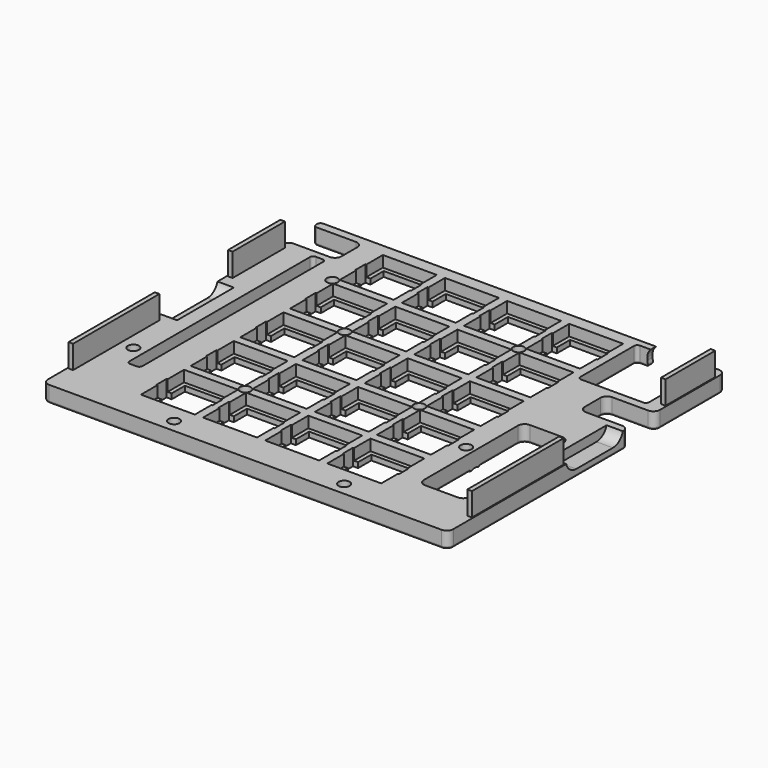
from build123d import *

# Parameters (mm, degrees)
PAD003_DEPTH                       = 5
SKETCH016_W                        = 14
SKETCH016_H                        = 14
POCKET009_DEPTH                    = 5
SKETCH016_LINEARPATTERN_2_W        = 14
SKETCH016_LINEARPATTERN_2_H        = 14
POCKET009_LINEARPATTERN_2_DEPTH    = 5
SKETCH016_LINEARPATTERN_3_W        = 14
SKETCH016_LINEARPATTERN_3_H        = 14
POCKET009_LINEARPATTERN_3_DEPTH    = 5
SKETCH016_LINEARPATTERN_4_W        = 14
SKETCH016_LINEARPATTERN_4_H        = 14
POCKET009_LINEARPATTERN_4_DEPTH    = 5
LINEARPATTERN001_COUNT             = 5
LINEARPATTERN001_PITCH             = 19
POCKET011_DEPTH                    = 5
SKETCH019_W                        = 16.5
SKETCH019_H                        = 16.5
POCKET012_DEPTH                    = 3.4
SKETCH019_LINEARPATTERN002_2_W     = 16.5
SKETCH019_LINEARPATTERN002_2_H     = 16.5
POCKET012_LINEARPATTERN002_2_DEPTH = 3.4
SKETCH019_LINEARPATTERN002_3_W     = 16.5
SKETCH019_LINEARPATTERN002_3_H     = 16.5
POCKET012_LINEARPATTERN002_3_DEPTH = 3.4
SKETCH019_LINEARPATTERN002_4_W     = 16.5
SKETCH019_LINEARPATTERN002_4_H     = 16.5
POCKET012_LINEARPATTERN002_4_DEPTH = 3.4
LINEARPATTERN003_COUNT             = 5
LINEARPATTERN003_PITCH             = 19
POCKET014_DEPTH                    = 5
POCKET014_LINEARPATTERN004_2_DEPTH = 5
POCKET014_LINEARPATTERN004_3_DEPTH = 5
POCKET014_LINEARPATTERN004_4_DEPTH = 5
LINEARPATTERN005_COUNT             = 5
LINEARPATTERN005_PITCH             = 19
POCKET015_DEPTH                    = 5
POCKET016_DEPTH                    = 5
POCKET017_DEPTH                    = 10
POCKET018_DEPTH                    = 5
POCKET019_DEPTH                    = 5
HOLE001_D                          = 3.4
HOLE001_DEPTH                      = 25
HOLE001_CSINK_D                    = 6.1
HOLE001_CSINK_ANGLE                = 90
HOLE_D                             = 3.4
HOLE_DEPTH                         = 25
HOLE_CSINK_D                       = 6.1
HOLE_CSINK_ANGLE                   = 90
POCKET020_DEPTH                    = 5
SKETCH028_W                        = 1.4
SKETCH028_H                        = 35
SKETCH028_H_2                      = 19
SKETCH028_H_3                      = 20
SKETCH028_H_4                      = 33
PAD004_DEPTH                       = 7.1
FILLET001_R                        = 0.65


with BuildPart() as part:
    # Sketch012 → Pad003 (new body)
    with BuildSketch(Plane.XY.offset(-5)):
        with BuildLine():
            Line((-2, 1.5), (-2, -101.5))
            ThreePointArc((-2, -101.5), (-1.414214, -102.914214), (0, -103.5))
            Line((0, -103.5), (120, -103.5))
            ThreePointArc((120, -103.5), (121.414214, -102.914214), (122, -101.5))
            Line((122, -101.5), (122, 0.5))
            ThreePointArc((122, 0.5), (121.414214, 1.914214), (120, 2.5))
            Line((120, 2.5), (-1, 2.5))
            ThreePointArc((-1, 2.5), (-1.707107, 2.207107), (-2, 1.5))
        make_face()
    extrude(amount=PAD003_DEPTH)

    # Sketch016 (on Face9 of Pad003) → Pocket009 (cut)
    with BuildSketch(Plane(origin=(0, 0, -5), x_dir=(1, 0, 0), z_dir=(0, 0, -1))):
        with Locations((28.525, 9.525)):
            Rectangle(SKETCH016_W, SKETCH016_H)
    pocket009 = extrude(amount=-POCKET009_DEPTH, mode=Mode.SUBTRACT)

    # Sketch016 LinearPattern 2 → Pocket009 LinearPattern 2 (cut)
    with BuildSketch(Plane(origin=(19, 0, -5), x_dir=(1, 0, 0), z_dir=(0, 0, -1))):
        with Locations((28.525, 9.525)):
            Rectangle(SKETCH016_LINEARPATTERN_2_W, SKETCH016_LINEARPATTERN_2_H)
    pocket009_linearpattern_2 = extrude(amount=-POCKET009_LINEARPATTERN_2_DEPTH, mode=Mode.SUBTRACT)

    # Sketch016 LinearPattern 3 → Pocket009 LinearPattern 3 (cut)
    with BuildSketch(Plane(origin=(38, 0, -5), x_dir=(1, 0, 0), z_dir=(0, 0, -1))):
        with Locations((28.525, 9.525)):
            Rectangle(SKETCH016_LINEARPATTERN_3_W, SKETCH016_LINEARPATTERN_3_H)
    pocket009_linearpattern_3 = extrude(amount=-POCKET009_LINEARPATTERN_3_DEPTH, mode=Mode.SUBTRACT)

    # Sketch016 LinearPattern 4 → Pocket009 LinearPattern 4 (cut)
    with BuildSketch(Plane(origin=(57, 0, -5), x_dir=(1, 0, 0), z_dir=(0, 0, -1))):
        with Locations((28.525, 9.525)):
            Rectangle(SKETCH016_LINEARPATTERN_4_W, SKETCH016_LINEARPATTERN_4_H)
    pocket009_linearpattern_4 = extrude(amount=-POCKET009_LINEARPATTERN_4_DEPTH, mode=Mode.SUBTRACT)

    # LinearPattern001: Pocket009, Pocket009 LinearPattern 2, Pocket009 LinearPattern 3, Pocket009 LinearPattern 4 ×5
    with Locations(*[(0, -i * LINEARPATTERN001_PITCH, 0) for i in range(1, LINEARPATTERN001_COUNT)]):
        add(pocket009, mode=Mode.SUBTRACT)
        add(pocket009_linearpattern_2, mode=Mode.SUBTRACT)
        add(pocket009_linearpattern_3, mode=Mode.SUBTRACT)
        add(pocket009_linearpattern_4, mode=Mode.SUBTRACT)

    # Sketch018 (on Face4 of MultiTransform) → Pocket011 (cut)
    with BuildSketch(Plane(origin=(0, 0, -5), x_dir=(1, 0, 0), z_dir=(0, 0, -1))):
        with BuildLine():
            Line((8.35, 12), (10.35, 12))
            ThreePointArc((10.35, 12), (11.057107, 12.292893), (11.35, 13))
            Line((11.35, 13), (11.35, 82))
            ThreePointArc((11.35, 82), (11.057107, 82.707107), (10.35, 83))
            Line((10.35, 83), (8.35, 83))
            ThreePointArc((8.35, 83), (7.642893, 82.707107), (7.35, 82))
            Line((7.35, 82), (7.35, 13))
            ThreePointArc((7.35, 13), (7.642893, 12.292893), (8.35, 12))
        make_face()
    extrude(amount=-POCKET011_DEPTH, mode=Mode.SUBTRACT)

    # Sketch019 (on Face5 of Pocket011) → Pocket012 (cut)
    with BuildSketch(Plane.XY):
        with Locations((28.525, -9.525)):
            Rectangle(SKETCH019_W, SKETCH019_H)
    pocket012 = extrude(amount=-POCKET012_DEPTH, mode=Mode.SUBTRACT)

    # Sketch019 LinearPattern002 2 → Pocket012 LinearPattern002 2 (cut)
    with BuildSketch(Plane(origin=(19, 0, 0), x_dir=(1, 0, 0), z_dir=(0, 0, 1))):
        with Locations((28.525, -9.525)):
            Rectangle(SKETCH019_LINEARPATTERN002_2_W, SKETCH019_LINEARPATTERN002_2_H)
    pocket012_linearpattern002_2 = extrude(amount=-POCKET012_LINEARPATTERN002_2_DEPTH, mode=Mode.SUBTRACT)

    # Sketch019 LinearPattern002 3 → Pocket012 LinearPattern002 3 (cut)
    with BuildSketch(Plane(origin=(38, 0, 0), x_dir=(1, 0, 0), z_dir=(0, 0, 1))):
        with Locations((28.525, -9.525)):
            Rectangle(SKETCH019_LINEARPATTERN002_3_W, SKETCH019_LINEARPATTERN002_3_H)
    pocket012_linearpattern002_3 = extrude(amount=-POCKET012_LINEARPATTERN002_3_DEPTH, mode=Mode.SUBTRACT)

    # Sketch019 LinearPattern002 4 → Pocket012 LinearPattern002 4 (cut)
    with BuildSketch(Plane(origin=(57, 0, 0), x_dir=(1, 0, 0), z_dir=(0, 0, 1))):
        with Locations((28.525, -9.525)):
            Rectangle(SKETCH019_LINEARPATTERN002_4_W, SKETCH019_LINEARPATTERN002_4_H)
    pocket012_linearpattern002_4 = extrude(amount=-POCKET012_LINEARPATTERN002_4_DEPTH, mode=Mode.SUBTRACT)

    # LinearPattern003: Pocket012, Pocket012 LinearPattern002 2, Pocket012 LinearPattern002 3, Pocket012 LinearPattern002 4 ×5
    with Locations(*[(0, -i * LINEARPATTERN003_PITCH, 0) for i in range(1, LINEARPATTERN003_COUNT)]):
        add(pocket012, mode=Mode.SUBTRACT)
        add(pocket012_linearpattern002_2, mode=Mode.SUBTRACT)
        add(pocket012_linearpattern002_3, mode=Mode.SUBTRACT)
        add(pocket012_linearpattern002_4, mode=Mode.SUBTRACT)

    # Sketch020 → Pocket014 (cut)
    with BuildSketch(Plane.XY):
        Polygon((20.275, -11.475), (19.975, -11.475), (19.975, -7.575), (20.275, -7.575), (36.775, -7.575), (37.075, -7.575), (37.075, -11.475), (36.775, -11.475), align=None)
    pocket014 = extrude(amount=-POCKET014_DEPTH, mode=Mode.SUBTRACT)

    # Sketch020 LinearPattern004 2 → Pocket014 LinearPattern004 2 (cut)
    with BuildSketch(Plane(origin=(19, 0, 0), x_dir=(1, 0, 0), z_dir=(0, 0, 1))):
        Polygon((20.275, -11.475), (19.975, -11.475), (19.975, -7.575), (20.275, -7.575), (36.775, -7.575), (37.075, -7.575), (37.075, -11.475), (36.775, -11.475), align=None)
    pocket014_linearpattern004_2 = extrude(amount=-POCKET014_LINEARPATTERN004_2_DEPTH, mode=Mode.SUBTRACT)

    # Sketch020 LinearPattern004 3 → Pocket014 LinearPattern004 3 (cut)
    with BuildSketch(Plane(origin=(38, 0, 0), x_dir=(1, 0, 0), z_dir=(0, 0, 1))):
        Polygon((20.275, -11.475), (19.975, -11.475), (19.975, -7.575), (20.275, -7.575), (36.775, -7.575), (37.075, -7.575), (37.075, -11.475), (36.775, -11.475), align=None)
    pocket014_linearpattern004_3 = extrude(amount=-POCKET014_LINEARPATTERN004_3_DEPTH, mode=Mode.SUBTRACT)

    # Sketch020 LinearPattern004 4 → Pocket014 LinearPattern004 4 (cut)
    with BuildSketch(Plane(origin=(57, 0, 0), x_dir=(1, 0, 0), z_dir=(0, 0, 1))):
        Polygon((20.275, -11.475), (19.975, -11.475), (19.975, -7.575), (20.275, -7.575), (36.775, -7.575), (37.075, -7.575), (37.075, -11.475), (36.775, -11.475), align=None)
    pocket014_linearpattern004_4 = extrude(amount=-POCKET014_LINEARPATTERN004_4_DEPTH, mode=Mode.SUBTRACT)

    # LinearPattern005: Pocket014, Pocket014 LinearPattern004 2, Pocket014 LinearPattern004 3, Pocket014 LinearPattern004 4 ×5
    with Locations(*[(0, -i * LINEARPATTERN005_PITCH, 0) for i in range(1, LINEARPATTERN005_COUNT)]):
        add(pocket014, mode=Mode.SUBTRACT)
        add(pocket014_linearpattern004_2, mode=Mode.SUBTRACT)
        add(pocket014_linearpattern004_3, mode=Mode.SUBTRACT)
        add(pocket014_linearpattern004_4, mode=Mode.SUBTRACT)

    # Sketch021 (on Face4 of MultiTransform002) → Pocket015 (cut)
    with BuildSketch(Plane(origin=(0, 0, -5), x_dir=(1, 0, 0), z_dir=(0, 0, -1))):
        with BuildLine():
            Line((116.5, -0.5), (97.5, -0.5))
            ThreePointArc((96.5, 0.5), (96.792893, -0.207107), (97.5, -0.5))
            Line((96.5, 0.5), (96.5, 21))
            ThreePointArc((97.5, 22), (96.792893, 21.707107), (96.5, 21))
            Line((97.5, 22), (116.5, 22))
            ThreePointArc((117.5, 21), (117.207107, 21.707107), (116.5, 22))
            Line((117.5, 21), (117.5, 0.5))
            ThreePointArc((116.5, -0.5), (117.207107, -0.207107), (117.5, 0.5))
        make_face()
        with BuildLine():
            Line((100.6, 86), (100.6, 50))
            ThreePointArc((100.6, 50), (101.185786, 48.585786), (102.6, 48))
            Line((102.6, 48), (112.6, 48))
            ThreePointArc((112.6, 48), (114.014214, 48.585786), (114.6, 50))
            Line((114.6, 50), (114.6, 86))
            ThreePointArc((114.6, 86), (114.014214, 87.414214), (112.6, 88))
            Line((112.6, 88), (102.6, 88))
            ThreePointArc((102.6, 88), (101.185786, 87.414214), (100.6, 86))
        make_face()
    extrude(amount=-POCKET015_DEPTH, mode=Mode.SUBTRACT)

    # Sketch022 (on Face4 of Pocket015) → Pocket016 (cut)
    with BuildSketch(Plane(origin=(0, 0, -5), x_dir=(1, 0, 0), z_dir=(0, 0, -1))):
        with BuildLine():
            Line((120, 34.5), (109, 34.5))
            ThreePointArc((109, 34.5), (107.585786, 33.914214), (107, 32.5))
            Line((107, 32.5), (107, 26.5))
            ThreePointArc((107, 26.5), (107.585786, 25.085786), (109, 24.5))
            Line((109, 24.5), (120, 24.5))
            Line((120.001, 24.5), (120, 24.5))
            ThreePointArc((122.001, 22.5), (121.415214, 23.914214), (120.001, 24.5))
            Line((122.001, 22.5), (122.001, 19.5))
            Line((122.001, 19.5), (127.001, 19.5))
            Line((127.001, 19.5), (127.001, 39.5))
            Line((127.001, 39.5), (122.001, 39.5))
            Line((122.001, 36.5), (122.001, 39.5))
            ThreePointArc((120.001, 34.5), (121.415214, 35.085786), (122.001, 36.5))
            Line((120, 34.5), (120.001, 34.5))
        make_face()
    extrude(amount=-POCKET016_DEPTH, mode=Mode.SUBTRACT)

    # Sketch023 (on Face6 of Pocket016) → Pocket017 (cut)
    with BuildSketch(Plane(origin=(0, 2.5, 0), x_dir=(-1, 0, 0), z_dir=(0, 1, 0))):
        with BuildLine():
            Line((-114.25, -2.4), (-114.25, -3.2))
            ThreePointArc((-114.25, -3.2), (-113.298097, -5.498097), (-111, -6.45))
            Line((-111, -6.45), (-103, -6.45))
            ThreePointArc((-103, -6.45), (-100.701903, -5.498097), (-99.75, -3.2))
            Line((-99.75, -3.2), (-99.75, -2.4))
            ThreePointArc((-99.75, -2.4), (-100.701903, -0.101903), (-103, 0.85))
            Line((-103, 0.85), (-111, 0.85))
            ThreePointArc((-111, 0.85), (-113.298097, -0.101903), (-114.25, -2.4))
        make_face()
    extrude(amount=-POCKET017_DEPTH, mode=Mode.SUBTRACT)

    # Sketch024 (on Face31 of Pocket017) → Pocket018 (cut)
    with BuildSketch(Plane.YZ.offset(122)):
        with BuildLine():
            Line((-58.5, 2.1), (-58.5, 1.1))
            ThreePointArc((-58.5, 1.1), (-57.328427, -1.728427), (-54.5, -2.9))
            Line((-54.5, -2.9), (-40.5, -2.9))
            ThreePointArc((-40.5, -2.9), (-37.671573, -1.728427), (-36.5, 1.1))
            Line((-36.5, 2.1), (-36.5, 1.1))
            ThreePointArc((-36.5, 2.1), (-37.671573, 4.928427), (-40.5, 6.1))
            Line((-54.500001, 6.1), (-40.5, 6.1))
            ThreePointArc((-54.500001, 6.1), (-57.328428, 4.928427), (-58.5, 2.1))
        make_face()
    extrude(amount=-POCKET018_DEPTH, mode=Mode.SUBTRACT)

    # Sketch025 (on Face1 of Pocket018) → Pocket019 (cut)
    with BuildSketch(Plane(origin=(-2, 0, 0), x_dir=(0, -1, 0), z_dir=(-1, 0, 0))):
        with BuildLine():
            Line((36.5, 2.1), (36.5, 1.1))
            ThreePointArc((36.5, 1.1), (37.671573, -1.728427), (40.5, -2.9))
            Line((40.5, -2.9), (54.5, -2.9))
            ThreePointArc((54.5, -2.9), (57.328427, -1.728427), (58.5, 1.1))
            Line((58.5, 2.1), (58.5, 1.1))
            ThreePointArc((58.5, 2.1), (57.328427, 4.928427), (54.5, 6.1))
            Line((40.499999, 6.1), (54.5, 6.1))
            ThreePointArc((40.499999, 6.1), (37.671572, 4.928427), (36.5, 2.1))
        make_face()
    extrude(amount=-POCKET019_DEPTH, mode=Mode.SUBTRACT)

    # Hole001
    with Locations(Plane(origin=(0, 0, -5), x_dir=(1, 0, 0), z_dir=(0, 0, -1))):
        with Locations((35, 99.5), (87, 99.5)):
            CounterSinkHole(HOLE001_D / 2, HOLE001_CSINK_D / 2, depth=HOLE001_DEPTH, counter_sink_angle=HOLE001_CSINK_ANGLE)

    # Hole
    with Locations(Plane(origin=(0, 0, -5), x_dir=(1, 0, 0), z_dir=(0, 0, -1))):
        with Locations((38, 76), (3.75, 76), (97.9, 66.5), (76, 57), (38, 38), (19, 19), (76, 19)):
            CounterSinkHole(HOLE_D / 2, HOLE_CSINK_D / 2, depth=HOLE_DEPTH, counter_sink_angle=HOLE_CSINK_ANGLE)

    # Sketch027 (on Face2 of Hole) → Pocket020 (cut)
    with BuildSketch(Plane(origin=(0, 0, -5), x_dir=(1, 0, 0), z_dir=(0, 0, -1))):
        with BuildLine():
            Line((-1, 0), (11, 0))
            ThreePointArc((11, 0), (12.414214, 0.585786), (13, 2))
            Line((13, 2), (13, 8))
            ThreePointArc((13, 8), (12.414214, 9.414214), (11, 10))
            Line((11, 10), (0, 10))
            ThreePointArc((-2, 12), (-1.414214, 10.585786), (0, 10))
            Line((-2, 12), (-4, 12))
            Line((-4, 12), (-4, -1))
            Line((-4, -1), (-2, -1))
            ThreePointArc((-1, 0), (-1.707107, -0.292893), (-2, -1))
        make_face()
    extrude(amount=-POCKET020_DEPTH, mode=Mode.SUBTRACT)

    # Sketch028 (on Face4 of Pocket020) → Pad004 (join)
    with BuildSketch(Plane.XY):
        with Locations((121, -76.5)):
            Rectangle(SKETCH028_W, SKETCH028_H)
        with Locations((121, -10.5)):
            Rectangle(SKETCH028_W, SKETCH028_H_2)
        with Locations((-1, -23)):
            Rectangle(SKETCH028_W, SKETCH028_H_3)
        with Locations((-1, -77.5)):
            Rectangle(SKETCH028_W, SKETCH028_H_4)
    extrude(amount=PAD004_DEPTH)

    # Fillet001
    fillet001_edges = [part.edges().sort_by_distance(p)[0] for p in [
        (-2, -56.75, -5),
        (107.6, -48, -5),
        (100.293988, 1.5, -5),
        (98.896994, 0.5, -5),
        (113.706012, 1.5, -5),
        (7.35, -47.5, -5),
    ]]
    fillet(fillet001_edges, radius=FILLET001_R)


solid = part.part
